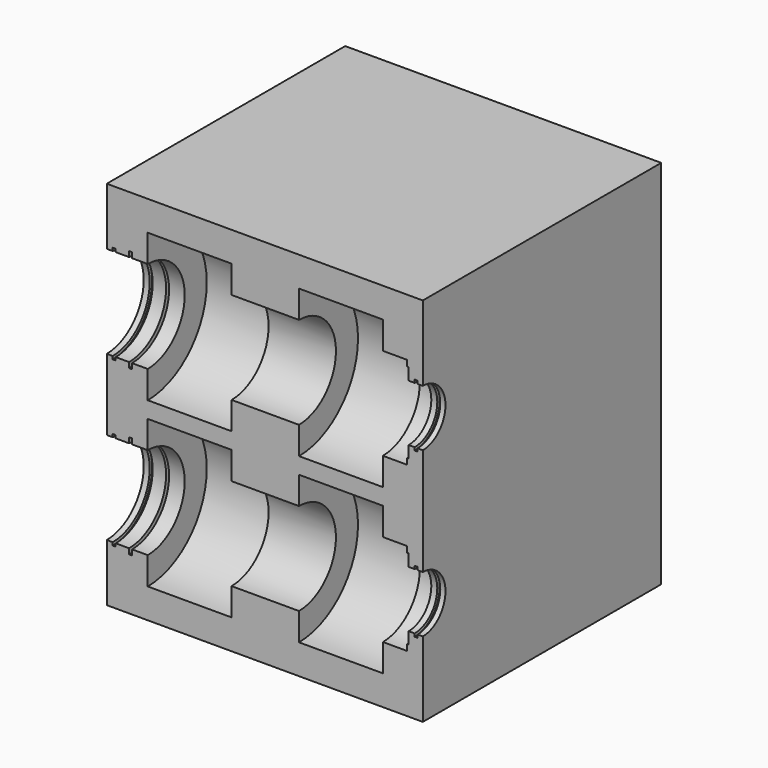
from build123d import *

# Parameters (mm, degrees)
F1_DEPTH = 200


with BuildPart() as f1:
    # F0 (on Front) → F1 (new body)
    with BuildSketch(Plane.XZ):
        Polygon((-107.723215, 71.316256), (-107.723215, 40.316256), (104.376785, 40.316256), (104.376785, 59.316256), (100.876785, 59.316256), (100.876785, 61.316256), (98.876785, 61.316256), (98.876785, 59.316256), (94.876785, 59.316256), (94.876785, 67.316256), (93.876785, 67.316256), (93.876785, 71.316256), (77.576785, 71.316256), (77.576785, 89.816256), (21.276785, 89.816256), (21.276785, 71.316256), (-23.923215, 71.316256), (-23.923215, 89.816256), (-80.223215, 89.816256), (-80.223215, 71.316256), (-90.723215, 71.316256), (-90.723215, 74.916256), (-92.723215, 74.916256), (-92.723215, 71.316256), (-101.723215, 71.316256), (-101.723215, 73.316256), (-103.723215, 73.316256), (-103.723215, 71.316256), align=None)
        Polygon((-107.723215, 109.816256), (-107.723215, 71.316256), (-103.723215, 71.316256), (-103.723215, 73.316256), (-101.723215, 73.316256), (-101.723215, 71.316256), (-92.723215, 71.316256), (-92.723215, 74.916256), (-90.723215, 74.916256), (-90.723215, 71.316256), (-80.223215, 71.316256), (-80.223215, 89.816256), (-23.923215, 89.816256), (-23.923215, 71.316256), (21.276785, 71.316256), (21.276785, 89.816256), (77.576785, 89.816256), (77.576785, 71.316256), (93.876785, 71.316256), (93.876785, 67.316256), (94.876785, 67.316256), (94.876785, 59.316256), (98.876785, 59.316256), (98.876785, 61.316256), (100.876785, 61.316256), (100.876785, 59.316256), (104.376785, 59.316256), (104.376785, 109.816256), align=None)
        Polygon((-107.723215, 40.316256), (-107.723215, 9.316256), (-103.723215, 9.316256), (-103.723215, 7.316256), (-101.723215, 7.316256), (-101.723215, 9.316256), (-92.723215, 9.316256), (-92.723215, 5.716256), (-90.723215, 5.716256), (-90.723215, 9.316256), (-80.223215, 9.316256), (-80.223215, -9.183744), (-23.923215, -9.183744), (-23.923215, 9.316256), (21.276785, 9.316256), (21.276785, -9.183744), (77.576785, -9.183744), (77.576785, 9.316256), (93.876785, 9.316256), (93.876785, 13.316256), (94.876785, 13.316256), (94.876785, 21.316256), (98.876785, 21.316256), (98.876785, 19.316256), (100.876785, 19.316256), (100.876785, 21.316256), (104.376785, 21.316256), (104.376785, 40.316256), align=None)
        Polygon((-107.723215, 9.316256), (-107.723215, -38.683744), (-103.723215, -38.683744), (-103.723215, -36.683744), (-101.723215, -36.683744), (-101.723215, -38.683744), (-92.723215, -38.683744), (-92.723215, -35.083744), (-90.723215, -35.083744), (-90.723215, -38.683744), (-80.223215, -38.683744), (-80.223215, -20.183744), (-23.923215, -20.183744), (-23.923215, -38.683744), (21.276785, -38.683744), (21.276785, -20.183744), (77.576785, -20.183744), (77.576785, -38.683744), (93.876785, -38.683744), (93.876785, -42.683744), (94.876785, -42.683744), (94.876785, -50.683744), (98.876785, -50.683744), (98.876785, -48.683744), (100.876785, -48.683744), (100.876785, -50.683744), (104.376785, -50.683744), (104.376785, 21.316256), (100.876785, 21.316256), (100.876785, 19.316256), (98.876785, 19.316256), (98.876785, 21.316256), (94.876785, 21.316256), (94.876785, 13.316256), (93.876785, 13.316256), (93.876785, 9.316256), (77.576785, 9.316256), (77.576785, -9.183744), (21.276785, -9.183744), (21.276785, 9.316256), (-23.923215, 9.316256), (-23.923215, -9.183744), (-80.223215, -9.183744), (-80.223215, 9.316256), (-90.723215, 9.316256), (-90.723215, 5.716256), (-92.723215, 5.716256), (-92.723215, 9.316256), (-101.723215, 9.316256), (-101.723215, 7.316256), (-103.723215, 7.316256), (-103.723215, 9.316256), align=None)
        Polygon((-103.723215, -38.683744), (-107.723215, -38.683744), (-107.723215, -69.683744), (104.376785, -69.683744), (104.376785, -50.683744), (100.876785, -50.683744), (100.876785, -48.683744), (98.876785, -48.683744), (98.876785, -50.683744), (94.876785, -50.683744), (94.876785, -42.683744), (93.876785, -42.683744), (93.876785, -38.683744), (77.576785, -38.683744), (77.576785, -20.183744), (21.276785, -20.183744), (21.276785, -38.683744), (-23.923215, -38.683744), (-23.923215, -20.183744), (-80.223215, -20.183744), (-80.223215, -38.683744), (-90.723215, -38.683744), (-90.723215, -35.083744), (-92.723215, -35.083744), (-92.723215, -38.683744), (-101.723215, -38.683744), (-101.723215, -36.683744), (-103.723215, -36.683744), align=None)
        Polygon((104.376785, -69.683744), (-107.723215, -69.683744), (-107.723215, -100.683744), (-103.723215, -100.683744), (-103.723215, -102.683744), (-101.723215, -102.683744), (-101.723215, -100.683744), (-92.723215, -100.683744), (-92.723215, -104.283744), (-90.723215, -104.283744), (-90.723215, -100.683744), (-80.223215, -100.683744), (-80.223215, -119.183744), (-23.923215, -119.183744), (-23.923215, -100.683744), (21.276785, -100.683744), (21.276785, -119.183744), (77.576785, -119.183744), (77.576785, -100.683744), (93.876785, -100.683744), (93.876785, -96.683744), (94.876785, -96.683744), (94.876785, -88.683744), (98.876785, -88.683744), (98.876785, -90.683744), (100.876785, -90.683744), (100.876785, -88.683744), (104.376785, -88.683744), align=None)
        Polygon((-103.723215, -100.683744), (-107.723215, -100.683744), (-107.723215, -139.183744), (104.376785, -139.183744), (104.376785, -88.683744), (100.876785, -88.683744), (100.876785, -90.683744), (98.876785, -90.683744), (98.876785, -88.683744), (94.876785, -88.683744), (94.876785, -96.683744), (93.876785, -96.683744), (93.876785, -100.683744), (77.576785, -100.683744), (77.576785, -119.183744), (21.276785, -119.183744), (21.276785, -100.683744), (-23.923215, -100.683744), (-23.923215, -119.183744), (-80.223215, -119.183744), (-80.223215, -100.683744), (-90.723215, -100.683744), (-90.723215, -104.283744), (-92.723215, -104.283744), (-92.723215, -100.683744), (-101.723215, -100.683744), (-101.723215, -102.683744), (-103.723215, -102.683744), align=None)
    extrude(amount=-F1_DEPTH)

    # F0 (on Front) → F2 (revolve, cut)
    with BuildSketch(Plane.XZ):
        Polygon((-107.723215, 71.316256), (-107.723215, 40.316256), (104.376785, 40.316256), (104.376785, 59.316256), (100.876785, 59.316256), (100.876785, 61.316256), (98.876785, 61.316256), (98.876785, 59.316256), (94.876785, 59.316256), (94.876785, 67.316256), (93.876785, 67.316256), (93.876785, 71.316256), (77.576785, 71.316256), (77.576785, 89.816256), (21.276785, 89.816256), (21.276785, 71.316256), (-23.923215, 71.316256), (-23.923215, 89.816256), (-80.223215, 89.816256), (-80.223215, 71.316256), (-90.723215, 71.316256), (-90.723215, 74.916256), (-92.723215, 74.916256), (-92.723215, 71.316256), (-101.723215, 71.316256), (-101.723215, 73.316256), (-103.723215, 73.316256), (-103.723215, 71.316256), align=None)
    revolve(axis=Axis((-1.673215, 0, 40.316256), (1, 0, 0)), mode=Mode.SUBTRACT)

    # F0 (on Front) → F3 (revolve, cut)
    with BuildSketch(Plane.XZ):
        Polygon((-103.723215, -38.683744), (-107.723215, -38.683744), (-107.723215, -69.683744), (104.376785, -69.683744), (104.376785, -50.683744), (100.876785, -50.683744), (100.876785, -48.683744), (98.876785, -48.683744), (98.876785, -50.683744), (94.876785, -50.683744), (94.876785, -42.683744), (93.876785, -42.683744), (93.876785, -38.683744), (77.576785, -38.683744), (77.576785, -20.183744), (21.276785, -20.183744), (21.276785, -38.683744), (-23.923215, -38.683744), (-23.923215, -20.183744), (-80.223215, -20.183744), (-80.223215, -38.683744), (-90.723215, -38.683744), (-90.723215, -35.083744), (-92.723215, -35.083744), (-92.723215, -38.683744), (-101.723215, -38.683744), (-101.723215, -36.683744), (-103.723215, -36.683744), align=None)
    revolve(axis=Axis((-1.673215, 0, -69.683744), (1, 0, 0)), mode=Mode.SUBTRACT)


solid = f1.part
